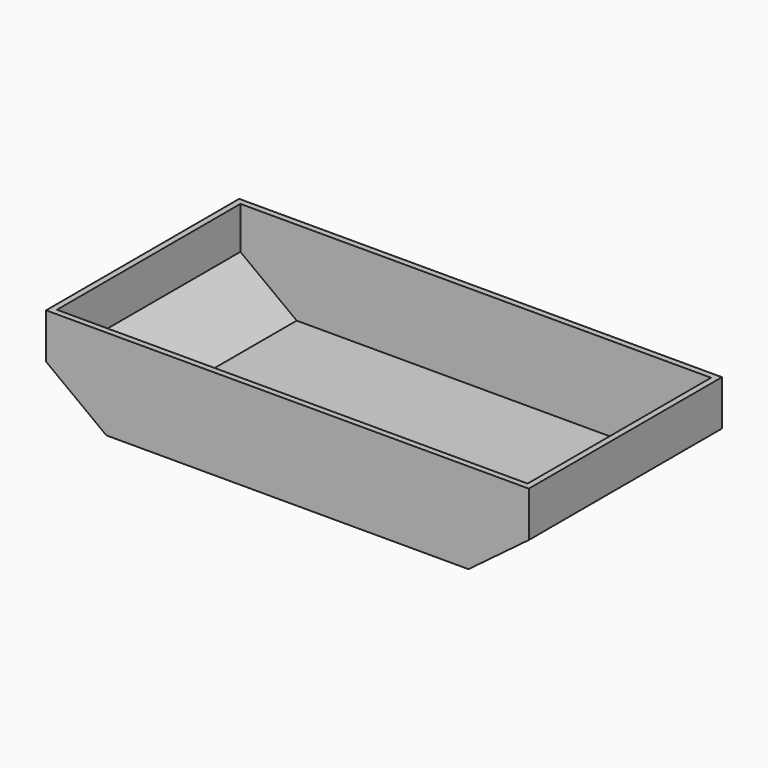
from build123d import *

# Parameters (mm, degrees)
F1_DEPTH = 101.6
F2_T     = -2.54


with BuildPart() as f1:
    # F0 (on Front) → F1 (new body)
    with BuildSketch(Plane.XZ):
        Polygon((0, -29.266017), (0, -48.316017), (25.4, -29.266017), align=None)
        Polygon((-177.8, -29.266017), (-152.4, -48.316017), (-152.4, -29.266017), align=None)
        Polygon((-152.4, -29.266017), (-152.4, -48.316017), (0, -48.316017), (0, -29.266017), (25.4, -29.266017), (25.4, -10.216017), (-177.8, -10.216017), (-177.8, -29.266017), align=None)
    extrude(amount=F1_DEPTH)

    # F2
    f2_openings = [f1.faces().sort_by_distance(p)[0] for p in [
        (-76.2, -50.8, -10.216017),
    ]]
    offset(amount=F2_T, openings=f2_openings)


solid = f1.part
